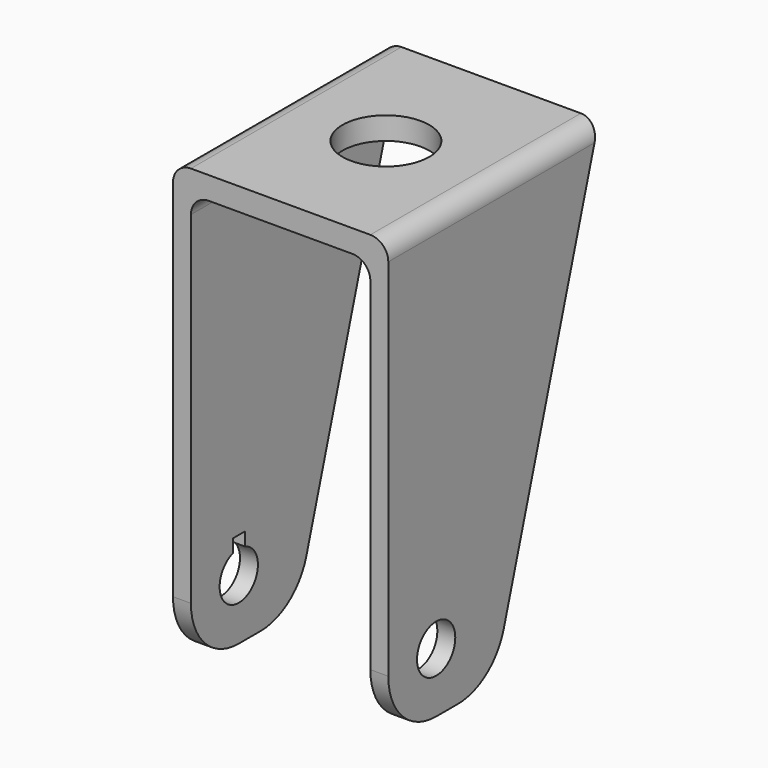
from build123d import *

# Parameters (mm, degrees)
F1_DEPTH  = 44
F2_R      = 4
F3_DEPTH  = 25
F4_DEPTH  = 25
F6_DEPTH  = 25
F5_R      = 4
F7_DEPTH  = 25
F8_R      = 3
F10_DEPTH = 25
F11_R     = 10
F12_R     = 7.25
F13_DEPTH = 25


with BuildPart() as f1:
    # F0 (on Front) → F1 (new body)
    with BuildSketch(Plane.XZ):
        Polygon((0, 74), (0, 0), (3, 0), (3, 70.2200388411), (33, 70.2200388411), (33, 0), (36, 0), (36, 74), align=None)
    extrude(amount=F1_DEPTH)

    # F2 (on face) → F3 (cut)
    with BuildSketch(Plane.YZ.offset(36)):
        with Locations((-34, 10)):
            Circle(F2_R)
    extrude(amount=-F3_DEPTH, mode=Mode.SUBTRACT)

    # F2 (on face) → F4 (cut)
    with BuildSketch(Plane.YZ.offset(36)):
        Polygon((0, 74), (-22, 0), (0, 0), align=None)
    extrude(amount=-F4_DEPTH, mode=Mode.SUBTRACT)

    # F5 (on face) → F6 (cut)
    with BuildSketch(Plane(origin=(0, 0, 0), x_dir=(0, -1, 0), z_dir=(-1, 0, 0))):
        Polygon((22, 0), (0, 74), (0, 0), align=None)
    extrude(amount=-F6_DEPTH, mode=Mode.SUBTRACT)

    # F5 (on face) → F7 (cut)
    with BuildSketch(Plane(origin=(0, 0, 0), x_dir=(0, -1, 0), z_dir=(-1, 0, 0))):
        with Locations((34, 10)):
            Circle(F5_R)
    extrude(amount=-F7_DEPTH, mode=Mode.SUBTRACT)

    # F8
    f8_edges = [f1.edges().sort_by_distance(p)[0] for p in [
        (36, -22, 74),
        (0, -22, 74),
        (33, -22.561886, 70.220039),
        (3, -22.561886, 70.220039),
    ]]
    fillet(f8_edges, radius=F8_R)

    # F9 (on face) → F10 (cut)
    with BuildSketch(Plane(origin=(0, 0, 0), x_dir=(0, -1, 0), z_dir=(-1, 0, 0))):
        with BuildLine():
            Line((32.75, 16), (32.75, 13.7996710384))
            ThreePointArc((32.75, 13.7996710384), (34, 14), (35.25, 13.7996710384))
            Line((35.25, 13.7996710384), (35.25, 16))
            Line((35.25, 16), (32.75, 16))
        make_face()
    extrude(amount=-F10_DEPTH, mode=Mode.SUBTRACT)

    # F11
    f11_edges = [f1.edges().sort_by_distance(p)[0] for p in [
        (1.5, -22, 0),
        (1.5, -44, 0),
        (34.5, -44, 0),
        (34.5, -22, 0),
    ]]
    fillet(f11_edges, radius=F11_R)

    # F12 (on face) → F13 (cut)
    with BuildSketch(Plane.XY.offset(74)):
        with Locations((18, -22)):
            Circle(F12_R)
    extrude(amount=-F13_DEPTH, mode=Mode.SUBTRACT)


solid = f1.part
